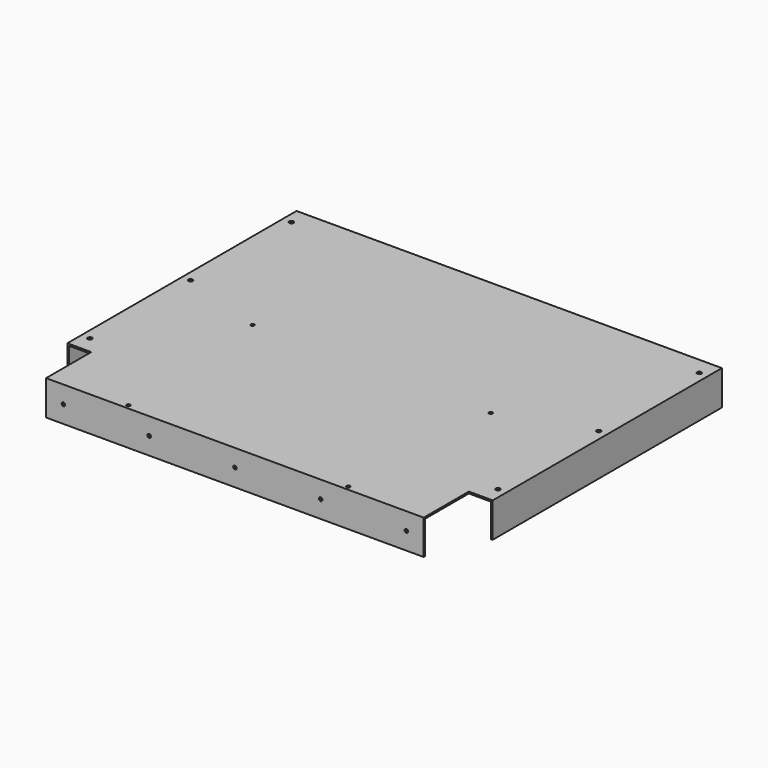
from build123d import *

# Parameters (mm, degrees)
F0_W     = 622.3
F0_H     = 501.65
F1_DEPTH = 25.4
F2_T     = -2.54
F3_W     = 34.925
F3_H     = 82.55
F3_R     = 2.579688
F3_R_2   = 3.175
F4_DEPTH = 50.801
F5_R     = 2.5781
F6_DEPTH = 501.651


with BuildPart() as f1:
    # F0 (on Top) → F1 (new body, symmetric)
    with BuildSketch(Plane.XY):
        Rectangle(F0_W, F0_H)
    extrude(amount=F1_DEPTH, both=True)

    # F2
    f2_openings = [f1.faces().sort_by_distance(p)[0] for p in [
        (0, 0, -25.4),
    ]]
    offset(amount=F2_T, openings=f2_openings)

    # F3 (on face) → F4 (cut, through all)
    with BuildSketch(Plane.XY.offset(25.4)):
        with Locations((-293.6875, -209.55)):
            Rectangle(F3_W, F3_H)
        with Locations((293.6875, -209.55)):
            Rectangle(F3_W, F3_H)
        with Locations((174.244, -0.762)):
            Circle(F3_R)
        with Locations((-174.244, -0.762)):
            Circle(F3_R)
        with Locations((-160.909, -244.475)):
            Circle(F3_R)
        with Locations((160.909, -244.475)):
            Circle(F3_R)
        with Locations((-298.45, 225.425)):
            Circle(F3_R_2)
        with Locations((-298.45, 41.275)):
            Circle(F3_R_2)
        with Locations((-298.45, -142.875)):
            Circle(F3_R_2)
        with Locations((298.45, -142.875)):
            Circle(F3_R_2)
        with Locations((298.45, 41.275)):
            Circle(F3_R_2)
        with Locations((298.45, 225.425)):
            Circle(F3_R_2)
    extrude(amount=-F4_DEPTH, mode=Mode.SUBTRACT)

    # F5 (on face) → F6 (cut, through all)
    with BuildSketch(Plane.XZ.offset(250.825)):
        Circle(F5_R)
        with Locations((125.4125, 0)):
            Circle(F5_R)
        with Locations((250.825, 0)):
            Circle(F5_R)
        with Locations((-125.4125, 0)):
            Circle(F5_R)
        with Locations((-250.825, 0)):
            Circle(F5_R)
    extrude(amount=-F6_DEPTH, mode=Mode.SUBTRACT)


solid = f1.part
